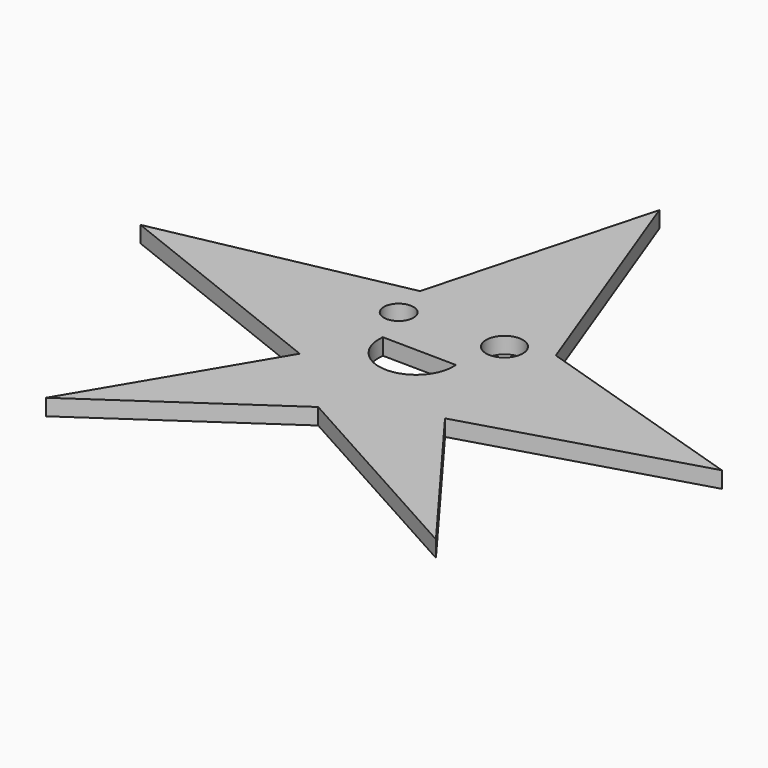
from build123d import *

# Parameters (mm, degrees)
F0_R     = 2.713976
F0_R_2   = 3.378333
F1_DEPTH = 3


with BuildPart() as f1:
    # F0 (on Top) → F1 (new body)
    with BuildSketch(Plane.XY):
        Polygon((16.613055, 12.984917), (0, 57.515403), (-11.07537, 16.4221), (-55.261451, 7.438993), (-12.412053, -9.547733), (-32.271337, -42.964797), (0, -20.814057), (38.881775, -42.381943), (16.4221, -12.221099), (57.515403, 0), align=None)
        with BuildLine():
            ThreePointArc((7.256278, 1.718592), (0.371071, -5.734422), (-6.301503, 1.909547))
            Line((-6.301503, 1.909547), (7.256278, 1.718592))
        make_face(mode=Mode.SUBTRACT)
        with Locations((-9.356778, 9.356778)):
            Circle(F0_R, mode=Mode.SUBTRACT)
        with Locations((9.165824, 10.502506)):
            Circle(F0_R_2, mode=Mode.SUBTRACT)
    extrude(amount=F1_DEPTH)


solid = f1.part
